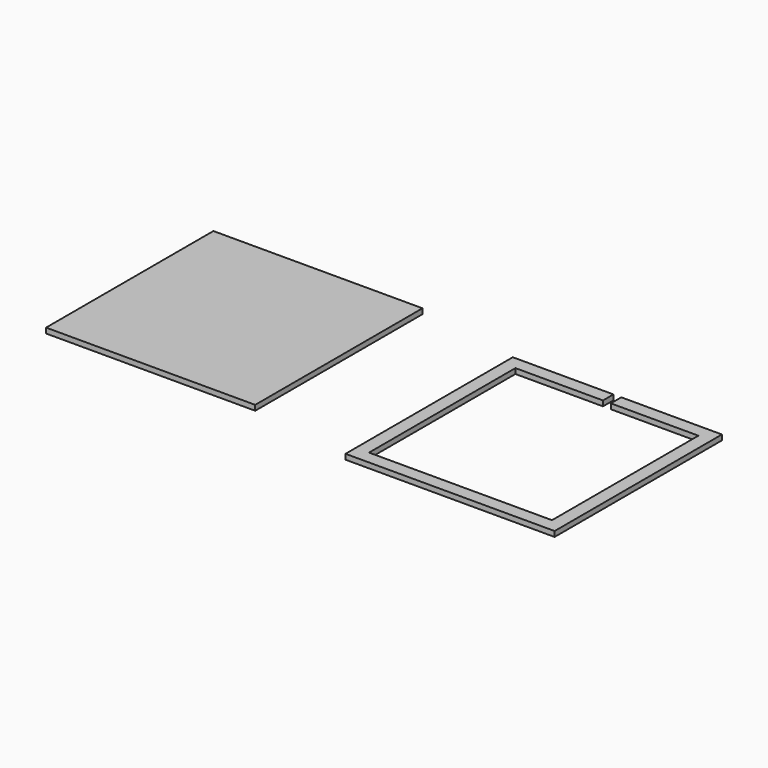
from build123d import *

# Parameters (mm, degrees)
F0_W     = 80
F0_H     = 80
F2_DEPTH = 2
F3_DEPTH = 2


with BuildPart() as f2:
    # F0 (on Top) → F2 (new body)
    with BuildSketch(Plane.XY):
        with Locations((-14.600592, 7.873829)):
            Rectangle(F0_W, F0_H)
    extrude(amount=F2_DEPTH)


with BuildPart() as f3:
    # F1 (on Top) → F3 (new body)
    with BuildSketch(Plane.XY):
        Polygon((66.242605, -40), (146.242605, -40), (146.242605, 40), (107.742605, 40), (107.742605, 35), (141.242605, 35), (141.242605, -35), (71.242605, -35), (71.242605, 35), (104.742605, 35), (104.742605, 40), (66.242605, 40), align=None)
    extrude(amount=F3_DEPTH)


solid = Compound([f2.part, f3.part])
